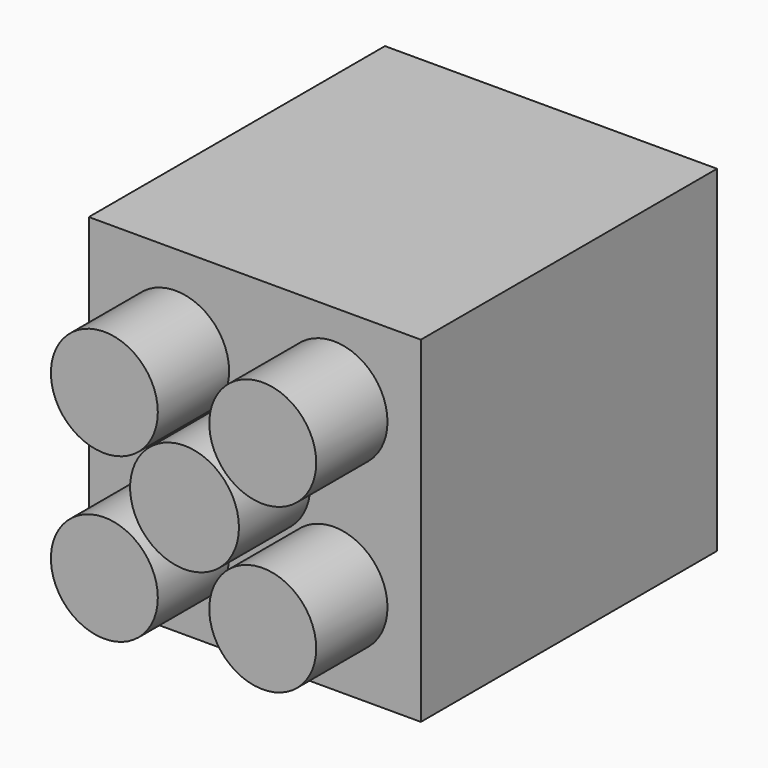
from build123d import *

# Parameters (mm, degrees)
F1_W      = 93.1631103158
F1_H      = 94.4140702486
F2_DEPTH  = 103.8612350821
F3_R      = 15
F4_DEPTH  = 25
F5_T      = -2.5
F6_DEPTH  = 25
F7_R      = 15.2680412387
F8_DEPTH  = 25
F9_R      = 13.6293819141
F10_DEPTH = 54.4321462512


with BuildPart() as f2:
    # F1 (on offset) → F2 (new body)
    with BuildSketch(Plane.XZ.offset(-12.5657636672)):
        with Locations((13.9752887189, 9.0170353651)):
            Rectangle(F1_W, F1_H)
    extrude(amount=F2_DEPTH)

    # F3 (on face) → F4 (join)
    with BuildSketch(Plane.XZ.offset(91.2954714149)):
        with Locations((36.1929880455, 32.9128091689)):
            Circle(F3_R)
        with Locations((36.1929880455, -12.9296954255)):
            Circle(F3_R)
        with Locations((-8.2424106076, -14.8787384387)):
            Circle(F3_R)
        with Locations((-8.2424106076, 30.9637661558)):
            Circle(F3_R)
    extrude(amount=F4_DEPTH)

    # F5
    f5_openings = [f2.faces().sort_by_distance(p)[0] for p in [
        (13.975289, 12.565764, 9.017035),
    ]]
    offset(amount=F5_T, openings=f5_openings, kind=Kind.INTERSECTION)

    # F3 (on face) → F6 (join)
    with BuildSketch(Plane.XZ.offset(91.2954714149)):
        with Locations((36.1929880455, 32.9128091689)):
            Circle(F3_R)
        with Locations((36.1929880455, -12.9296954255)):
            Circle(F3_R)
        with Locations((-8.2424106076, -14.8787384387)):
            Circle(F3_R)
        with Locations((-8.2424106076, 30.9637661558)):
            Circle(F3_R)
    extrude(amount=F6_DEPTH)

    # F7 (on face) → F8 (join)
    with BuildSketch(Plane.XZ.offset(91.2954714149)):
        with Locations((14.2471631989, 9.8856743425)):
            Circle(F7_R)
    extrude(amount=F8_DEPTH)

    # F9 (on face) → F10 (join)
    with BuildSketch(Plane.XZ.offset(91.2954714149)):
        with Locations((14.0535570681, 9.2893429101)):
            Circle(F9_R)
    extrude(amount=-F10_DEPTH)


solid = f2.part
